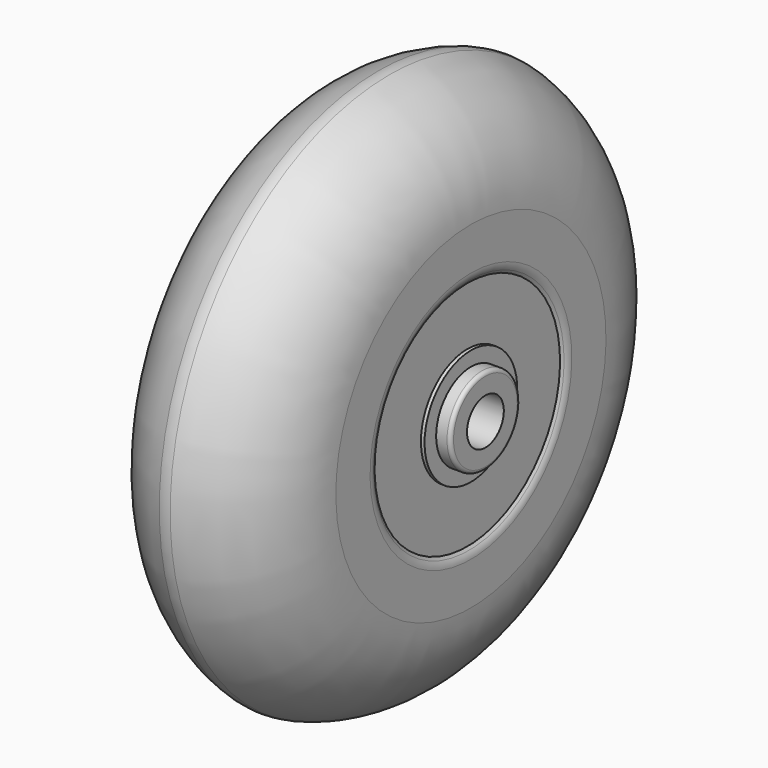
from build123d import *

# Parameters (mm, degrees)
F2_R = 3


with BuildPart() as f1:
    # F0 (on Front) → F1 (revolve)
    with BuildSketch(Plane.XZ):
        with BuildLine():
            Line((-14, 3.175), (0, 3.175))
            Line((0, 3.175), (14, 3.175))
            Line((14, 3.175), (14, 5.5))
            ThreePointArc((14, 5.5), (13.853553, 5.853553), (13.5, 6))
            Line((13.5, 6), (12, 6))
            Line((12, 6), (12, 8))
            Line((12, 8), (11.5, 8))
            Line((11.5, 8), (11.5, 16))
            Line((11.5, 16), (11.732051, 16.401924))
            ThreePointArc((11.732051, 16.401924), (11.931852, 16.884286), (12, 17.401924))
            Line((12, 17.401924), (12, 23.303062))
            ThreePointArc((12, 23.303062), (8.61895, 32.789895), (0, 38))
            ThreePointArc((0, 38), (-8.61895, 32.789895), (-12, 23.303062))
            Line((-12, 23.303062), (-12, 17.401924))
            ThreePointArc((-12, 17.401924), (-11.931852, 16.884286), (-11.732051, 16.401924))
            Line((-11.732051, 16.401924), (-11.5, 16))
            Line((-11.5, 16), (-11.5, 8))
            Line((-11.5, 8), (-12, 8))
            Line((-12, 8), (-12, 6))
            Line((-12, 6), (-13.5, 6))
            ThreePointArc((-13.5, 6), (-13.853553, 5.853553), (-14, 5.5))
            Line((-14, 5.5), (-14, 3.175))
        make_face()
    revolve(axis=Axis((0, 0, 0), (1, 0, 0)))

    # F2
    f2_edges = [f1.edges().sort_by_distance(p)[0] for p in [
        (0, 0, -38),
    ]]
    fillet(f2_edges, radius=F2_R)


solid = f1.part
